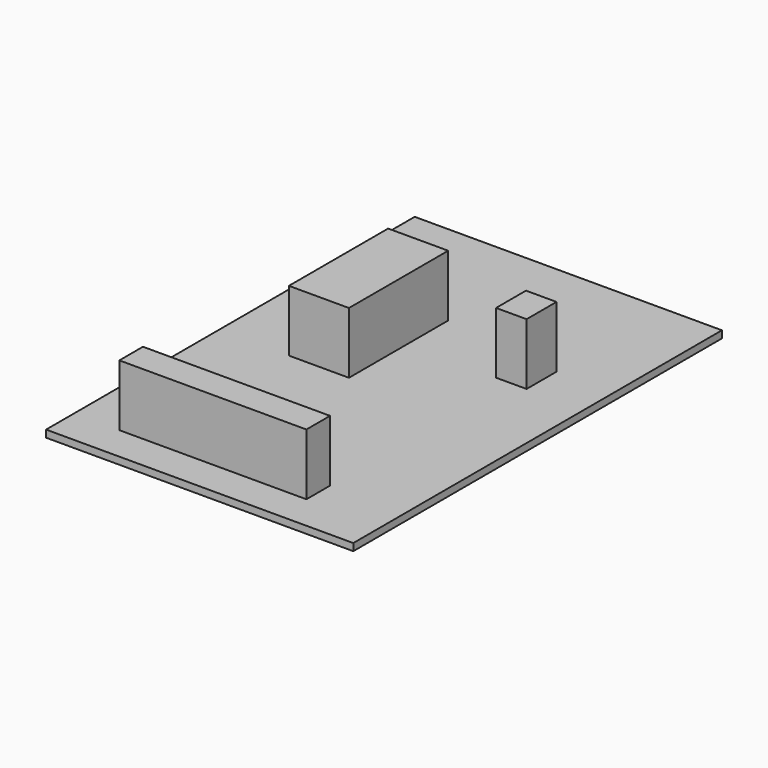
from build123d import *

# Parameters (mm, degrees)
F0_W     = 76.2
F0_H     = 114.3
F1_DEPTH = 1.778
F2_W     = 46.403843
F2_H     = 7.326924
F2_W_2   = 14.898078
F2_H_2   = 30.773077
F2_W_3   = 7.571157
F2_H_3   = 9.280771
F3_DEPTH = 15.24


with BuildPart() as f1:
    # F0 (on Top) → F1 (new body)
    with BuildSketch(Plane.XY):
        with Locations((38.1, 57.15)):
            Rectangle(F0_W, F0_H)
    extrude(amount=F1_DEPTH)

    # F2 (on face) → F3 (join)
    with BuildSketch(Plane.XY.offset(1.778)):
        with Locations((34.436538, 12.333652)):
            Rectangle(F2_W, F2_H)
        with Locations((24.789422, 68.99519)):
            Rectangle(F2_W_2, F2_H_2)
        with Locations((58.249039, 76.077886)):
            Rectangle(F2_W_3, F2_H_3)
    extrude(amount=F3_DEPTH)


solid = f1.part
